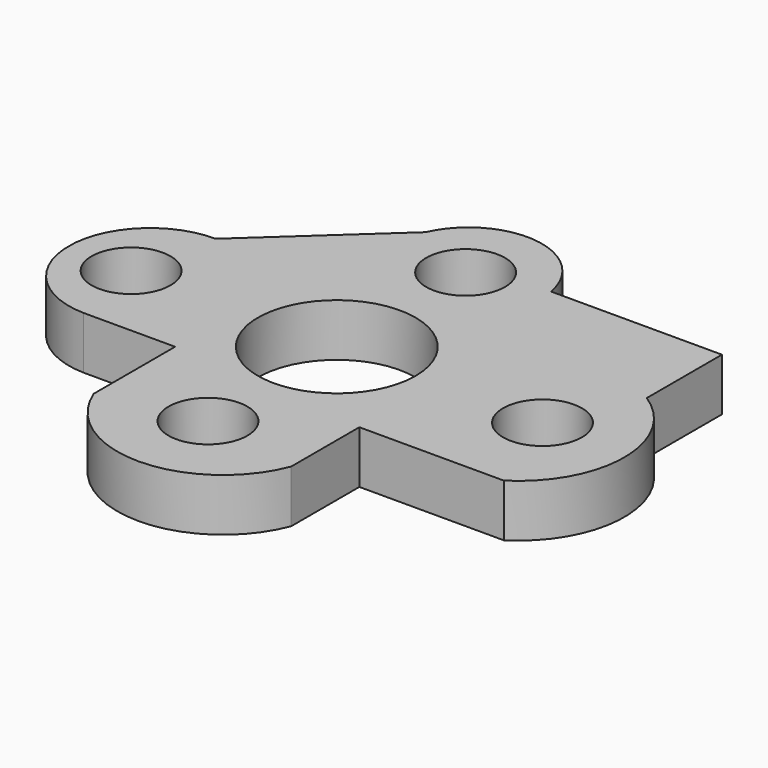
from build123d import *

# Parameters (mm, degrees)
F0_R     = 1.5
F0_R_2   = 3
F1_DEPTH = 2


with BuildPart() as f1:
    # F0 (on Top) → F1 (new body)
    with BuildSketch(Plane.XY):
        with BuildLine():
            Line((-31.964893, 11.673815), (-28.487817, 11.673815))
            Line((-28.487817, 11.673815), (-28.487817, 7.80591))
            ThreePointArc((-28.487817, 7.80591), (-24.73358, 5.237709), (-20.981651, 7.80928))
            Line((-20.981651, 7.80928), (-20.981651, 11.050785))
            Line((-20.981651, 11.050785), (-15.487817, 11.050785))
            ThreePointArc((-15.487817, 11.050785), (-13.62272, 14.450413), (-15.487817, 17.850041))
            Line((-15.487817, 17.850041), (-15.487817, 21.423815))
            Line((-15.487817, 21.423815), (-21.987817, 21.423815))
            ThreePointArc((-21.987817, 21.423815), (-24.399065, 23.705329), (-27.288638, 22.071378))
            Line((-27.288638, 22.071378), (-31.889195, 17.850041))
            ThreePointArc((-31.889195, 17.850041), (-33.985999, 17.050288), (-34.987817, 15.042166))
            Line((-34.987817, 15.042166), (-34.987817, 14.481326))
            ThreePointArc((-34.987817, 14.481326), (-34.01389, 12.498791), (-31.964893, 11.673815))
        make_face()
        with Locations((-24.737817, 8.548815)):
            Circle(F0_R, mode=Mode.SUBTRACT)
        with Locations((-32.562817, 14.673815)):
            Circle(F0_R, mode=Mode.SUBTRACT)
        with Locations((-24.737817, 14.673815)):
            Circle(F0_R_2, mode=Mode.SUBTRACT)
        with Locations((-24.737817, 20.798815)):
            Circle(F0_R, mode=Mode.SUBTRACT)
        with Locations((-16.912817, 14.673815)):
            Circle(F0_R, mode=Mode.SUBTRACT)
    extrude(amount=F1_DEPTH)


solid = f1.part
